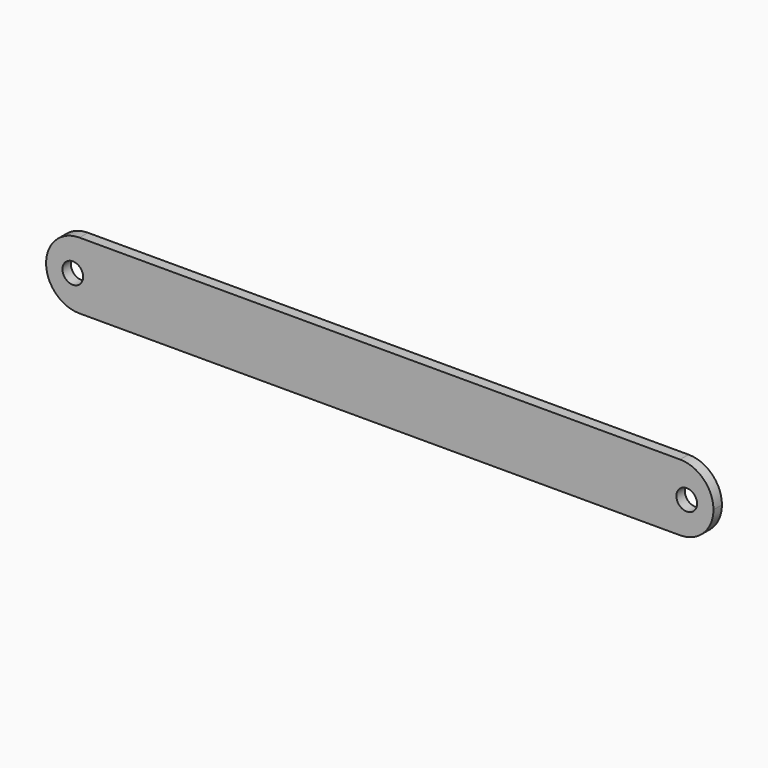
from build123d import *

# Parameters (mm, degrees)
F0_R     = 3.1
F1_DEPTH = 3.175


with BuildPart() as f1:
    # F0 (on Front) → F1 (new body)
    with BuildSketch(Plane.XZ):
        with BuildLine():
            ThreePointArc((-88.9, 0), (-92, 3.1), (-95.1, 0))
            ThreePointArc((-95.1, 0), (-92, -3.1), (-88.9, 0))
        make_face()
        with Locations((92, 0)):
            Circle(F0_R)
        with BuildLine():
            ThreePointArc((100, 0), (97.071068, 7.071068), (90, 10))
            Line((90, 10), (-90, 10))
            ThreePointArc((-90, 10), (-97.071068, 7.071068), (-100, 0))
            ThreePointArc((-100, 0), (-97.071068, -7.071068), (-90, -10))
            Line((-90, -10), (90, -10))
            ThreePointArc((90, -10), (97.071068, -7.071068), (100, 0))
        make_face()
        with BuildLine():
            ThreePointArc((-88.9, 0), (-92, -3.1), (-95.1, 0))
            ThreePointArc((-95.1, 0), (-92, 3.1), (-88.9, 0))
        make_face(mode=Mode.SUBTRACT)
        with Locations((92, 0)):
            Circle(F0_R, mode=Mode.SUBTRACT)
    extrude(amount=F1_DEPTH)


solid = f1.part
